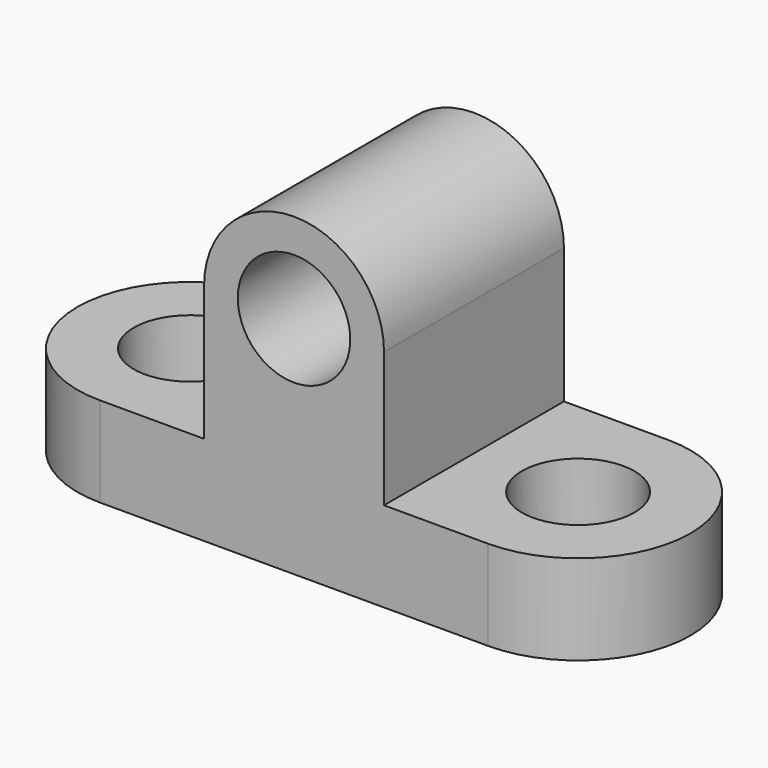
from build123d import *

# Parameters (mm, degrees)
F2_DEPTH  = 25
F3_DEPTH  = 20
F6_DEPTH  = 50
F8_R      = 12.5
F9_DEPTH  = 54.4
F7_R      = 12.5
F10_DEPTH = 25


with BuildPart() as f2:
    # F0 (on Front) → F2 (new body, symmetric)
    with BuildSketch(Plane.XZ):
        Polygon((-43.145511, 0), (-20, 0), (20, 0), (43.145511, 0), (43.145511, 20), (20, 20), (20, 50), (-20, 50), (-20, 20), (-43.145511, 20), align=None)
    extrude(amount=F2_DEPTH, both=True)

    # F1 (on Top) → F3 (join)
    with BuildSketch(Plane.XY):
        with BuildLine():
            Line((-43.145511, -25), (-43.145511, 25))
            ThreePointArc((-43.145511, 25), (-68.145511, 0), (-43.145511, -25))
        make_face()
    extrude(amount=F3_DEPTH)

    # F4: F2 across plane


with BuildPart() as f2_1:
    add(f2.part)
    add(f2.part.mirror(Plane.YZ))

    # F5 (on face) → F6 (join)
    with BuildSketch(Plane.XZ.offset(25)):
        with BuildLine():
            Line((-20, 50), (20, 50))
            ThreePointArc((20, 50), (0, 70), (-20, 50))
        make_face()
    extrude(amount=-F6_DEPTH)

    # F8 (on face) → F9 (cut, symmetric)
    with BuildSketch(Plane(origin=(0, 25, 0), x_dir=(-1, 0, 0), z_dir=(0, 1, 0))):
        with Locations((0, 50)):
            Circle(F8_R)
    extrude(amount=F9_DEPTH, both=True, mode=Mode.SUBTRACT)

    # F7 (on face) → F10 (cut)
    with BuildSketch(Plane.XY.offset(20)):
        with Locations((43.145511, 0)):
            Circle(F7_R)
        with Locations((-43.145511, 0)):
            Circle(F7_R)
    extrude(amount=-F10_DEPTH, mode=Mode.SUBTRACT)


solid = f2_1.part
